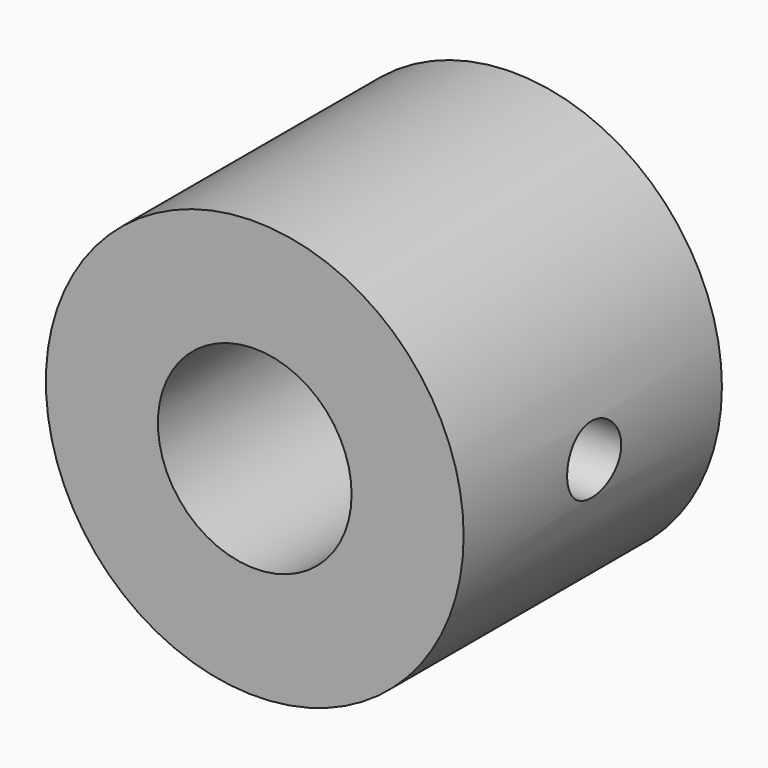
from build123d import *

# Parameters (mm, degrees)
F0_R     = 6.985
F0_R_2   = 3.2385
F1_DEPTH = 10.795
F3_D     = 2.2606
F3_DEPTH = 13.905
F3_TIP   = 0.6791527577


with BuildPart() as f1:
    # F0 (on Front) → F1 (new body)
    with BuildSketch(Plane.XZ):
        Circle(F0_R)
        Circle(F0_R_2, mode=Mode.SUBTRACT)
    extrude(amount=F1_DEPTH)

    # F3 (one way)
    with BuildSketch(Plane(origin=(0, 0, 0), x_dir=(0, 1, 0), z_dir=(-1, 0, 0))):
        with Locations((-5.3385389037, 0)):
            Circle(F3_D / 2)
    extrude(amount=-F3_DEPTH, mode=Mode.SUBTRACT)
    with Locations(Plane(origin=(0, 0, 0), x_dir=(0, 1, 0), z_dir=(-1, 0, 0))):
        with Locations((-5.3385389037, 0)):
            with Locations((0, 0, -(F3_DEPTH + F3_TIP / 2))):  # 118° drill point
                Cone(0, F3_D / 2, F3_TIP, mode=Mode.SUBTRACT)


solid = f1.part
